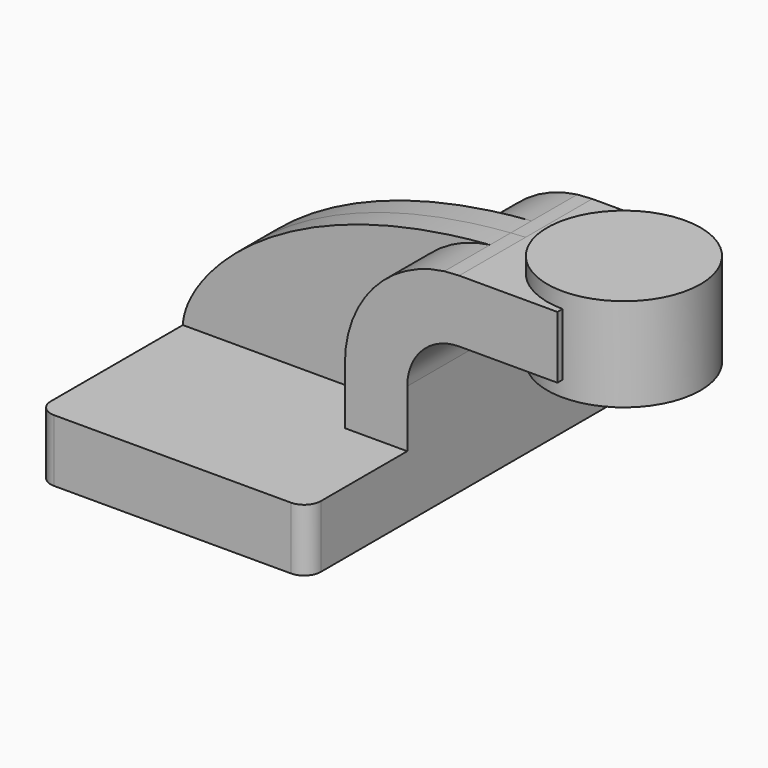
from build123d import *

# Parameters (mm, degrees)
F1_DEPTH = 63.5
F0_W     = 27.3727922164
F0_H     = 19.05
F2_DEPTH = 25.4
F3_DEPTH = 7.9375
F5_R     = 5.08


with BuildPart() as f1:
    # F0 (on Front) → F1 (new body, symmetric)
    with BuildSketch(Plane.XZ):
        Polygon((22.225, 9.525), (-41.275, 9.525), (-41.275, -9.525), (41.275, -9.525), (41.275, 9.525), align=None)
    extrude(amount=F1_DEPTH, both=True)

    # F0 (on Front) → F2 (join, symmetric)
    with BuildSketch(Plane.XZ):
        with Locations((73.4864038918, 52.4002)):
            Rectangle(F0_W, F0_H)
        with BuildLine():
            Line((22.225, 27.0002), (22.225, 9.525))
            Line((22.225, 9.525), (41.275, 9.525))
            Line((41.275, 9.525), (41.275, 27.0002))
            ThreePointArc((41.275, 27.0002), (45.9246798487, 38.2255201513), (57.15, 42.8752))
            Line((57.15, 42.8752), (59.8000077836, 42.8752))
            Line((59.8000077836, 42.8752), (59.8000077836, 61.9252))
            Line((59.8000077836, 61.9252), (57.15, 61.9252))
            add(Edge.make_bspline(
                [(52.6023702137, 61.6278578522), (54.0985072201, 61.7416652267), (55.6143415744, 61.8409632906), (57.15, 61.9252)],
                knots=[109.0172906115, 109.0172906115, 109.0172906115, 109.0172906115, 111.5045361635, 111.5045361635, 111.5045361635, 111.5045361635], degree=3))
            ThreePointArc((52.6023702137, 61.6278578522), (30.8956518336, 50.032022059), (22.225, 27.0002))
        make_face()
    extrude(amount=F2_DEPTH, both=True)

    # F0 (on Front) → F3 (join, symmetric)
    with BuildSketch(Plane.XZ):
        with BuildLine():
            add(Edge.make_bspline(
                [(-41.275, 9.525), (-40.7097081479, 23.7773233991), (-12.9741076271, 56.6396203166), (52.6023702137, 61.6278578522)],
                knots=[0, 0, 0, 0, 109.0172906115, 109.0172906115, 109.0172906115, 109.0172906115], degree=3))
            Line((-41.275, 9.525), (22.225, 9.525))
            Line((22.225, 9.525), (22.225, 27.0002))
            ThreePointArc((22.225, 27.0002), (30.8956518336, 50.032022059), (52.6023702137, 61.6278578522))
        make_face()
    extrude(amount=F3_DEPTH, both=True)

    # F0 (on Front) → F4 (revolve)
    with BuildSketch(Plane.XZ):
        Polygon((87.1728, 66.675), (87.1728, 61.9252), (87.1728, 42.8752), (87.1728, 38.1), (110.6000077836, 38.1), (110.6000077836, 66.675), align=None)
    revolve(axis=Axis((87.1728, 0, 52.3875), (0, 0, -1)))

    # F5
    f5_edges = [f1.edges().sort_by_distance(p)[0] for p in [
        (-41.275, -63.5, 0),
        (41.275, -63.5, 0),
        (41.275, 63.5, 0),
        (-41.275, 63.5, 0),
    ]]
    fillet(f5_edges, radius=F5_R)


solid = f1.part
